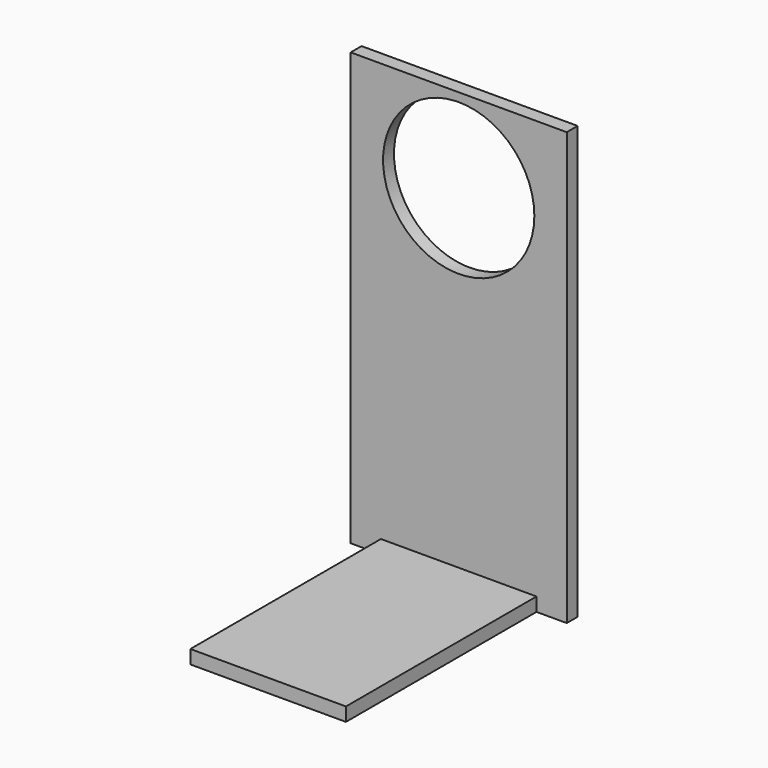
from build123d import *

# Parameters (mm, degrees)
F0_W     = 63.5
F0_H     = 127
F0_R     = 22.225
F1_DEPTH = 4
F2_W     = 45.72
F2_H     = 4
F3_DEPTH = 70


with BuildPart() as f1:
    # F0 (on Front) → F1 (new body)
    with BuildSketch(Plane.XZ):
        with Locations((31.75, 63.5)):
            Rectangle(F0_W, F0_H)
        with Locations((31.75, 102.235)):
            Circle(F0_R, mode=Mode.SUBTRACT)
    extrude(amount=F1_DEPTH)

    # F2 (on face) → F3 (join)
    with BuildSketch(Plane.XZ.offset(4)):
        with Locations((31.75, 2)):
            Rectangle(F2_W, F2_H)
    extrude(amount=F3_DEPTH)


solid = f1.part
